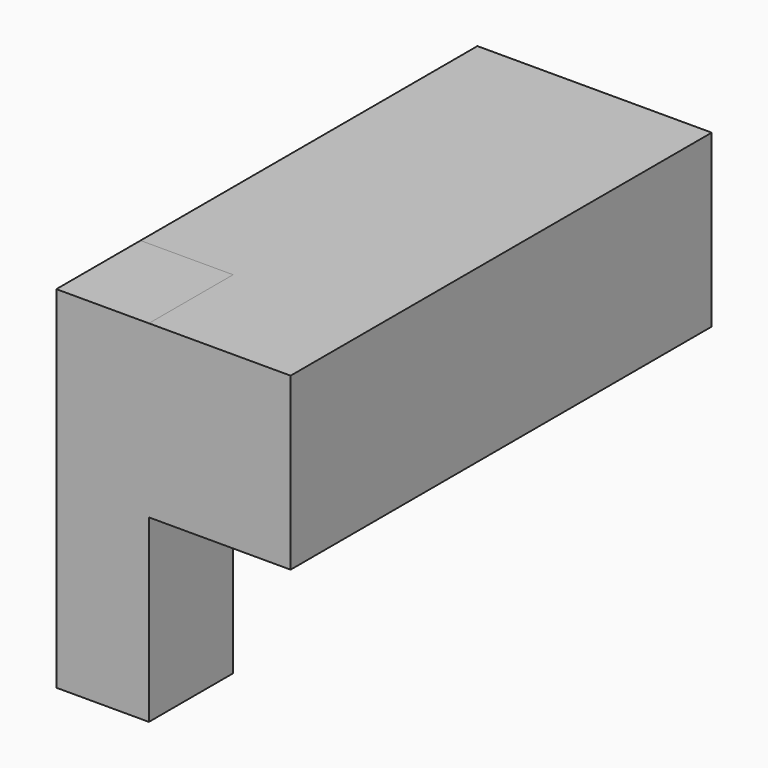
from build123d import *

# Parameters (mm, degrees)
F0_W     = 50.873414
F0_H     = 37.091341
F1_DEPTH = 114.3
F2_W     = 20.102393
F2_H     = 22.850888
F3_DEPTH = 76.2
F4_W     = 12.826613
F4_H     = 22.823585
F6_DEPTH = 5.08


with BuildPart() as f1:
    # F0 (on Front) → F1 (new body)
    with BuildSketch(Plane.XZ):
        with Locations((25.436707, 18.54567)):
            Rectangle(F0_W, F0_H)
    extrude(amount=F1_DEPTH)

    # F2 (on face) → F3 (join)
    with BuildSketch(Plane.XY.offset(37.091341)):
        with Locations((10.051196, -102.874556)):
            Rectangle(F2_W, F2_H)
    extrude(amount=-F3_DEPTH)

    # F4 (on face) → F6 (join)
    with BuildSketch(Plane.XZ.offset(114.3)):
        with Locations((26.705557, 25.679548)):
            Rectangle(F4_W, F4_H)
    extrude(amount=-F6_DEPTH)


solid = f1.part
